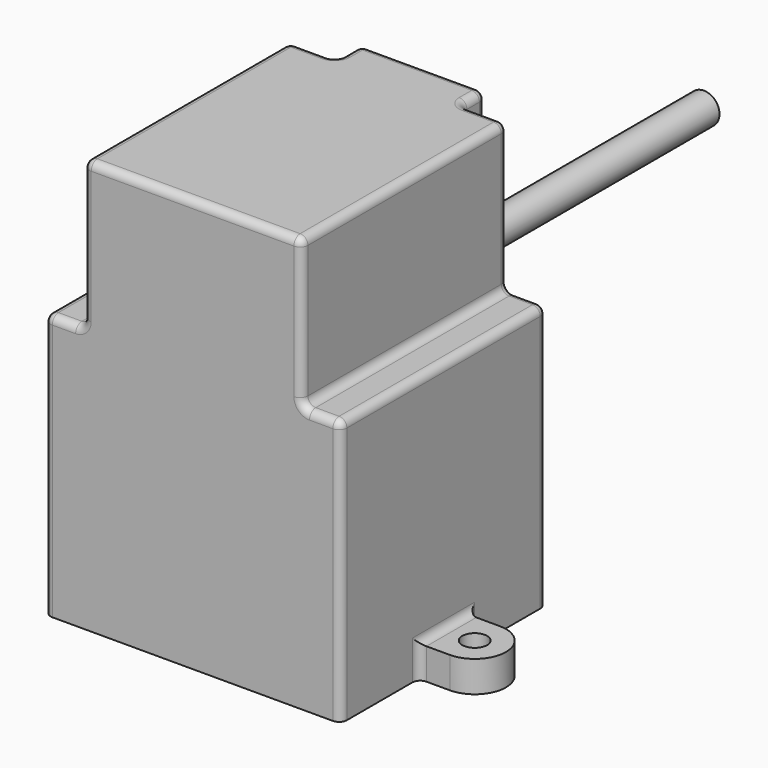
from build123d import *

# Parameters (mm, degrees)
F1_DEPTH = 53
F2_W     = 5
F2_H     = 33
F3_DEPTH = 19
F4_R     = 3.5
F5_DEPTH = 5
F0_R     = 1.6
F6_DEPTH = 4
F7_R     = 2
F8_DEPTH = 50
F9_R     = 1


with BuildPart() as f1:
    # F0 (on Top) → F1 (new body)
    with BuildSketch(Plane.XY):
        Polygon((19, 4), (19, 16.5), (8, 16.5), (8, 20.5), (0, 20.5), (-8, 20.5), (-8, 16.5), (-19, 16.5), (-19, 4), (-19, -4), (-19, -16.5), (19, -16.5), (19, -4), align=None)
    extrude(amount=F1_DEPTH)

    # F2 (on face) → F3 (cut)
    with BuildSketch(Plane.XY.offset(53)):
        with Locations((-16.5, 0)):
            Rectangle(F2_W, F2_H)
        with Locations((16.5, 0)):
            Rectangle(F2_W, F2_H)
    extrude(amount=-F3_DEPTH, mode=Mode.SUBTRACT)

    # F4 (on face) → F5 (cut)
    with BuildSketch(Plane(origin=(0, 20.5, 0), x_dir=(-1, 0, 0), z_dir=(0, 1, 0))):
        with Locations((0, 30)):
            Circle(F4_R)
    extrude(amount=-F5_DEPTH, mode=Mode.SUBTRACT)

    # F0 (on Top) → F6 (join)
    with BuildSketch(Plane.XY):
        with BuildLine():
            Line((-23, -4), (-19, -4))
            Line((-19, -4), (-19, 4))
            Line((-19, 4), (-23, 4))
            ThreePointArc((-23, 4), (-27, 0), (-23, -4))
        make_face()
        with Locations((-23, 0)):
            Circle(F0_R, mode=Mode.SUBTRACT)
        with BuildLine():
            Line((23, 4), (19, 4))
            Line((19, 4), (19, -4))
            Line((19, -4), (23, -4))
            ThreePointArc((23, -4), (27, 0), (23, 4))
        make_face()
        with Locations((23, 0)):
            Circle(F0_R, mode=Mode.SUBTRACT)
    extrude(amount=F6_DEPTH)

    # F7 (on face) → F8 (join)
    with BuildSketch(Plane(origin=(0, 15.5, 0), x_dir=(-1, 0, 0), z_dir=(0, 1, 0))):
        with Locations((0, 30)):
            Circle(F7_R)
    extrude(amount=F8_DEPTH)

    # F9
    f9_edges = [f1.edges().sort_by_distance(p)[0] for p in [
        (14, 0, 53),
        (0, -16.5, 53),
        (-14, 0, 53),
        (-11, 16.5, 53),
        (-8, 18.5, 53),
        (0, 20.5, 53),
        (8, 18.5, 53),
        (11, 16.5, 53),
        (-14, -16.5, 43.5),
        (-14, 16.5, 43.5),
        (-14, 0, 34),
        (14, 16.5, 43.5),
        (14, -16.5, 43.5),
        (14, 0, 34),
        (-19, -16.5, 17),
        (-16.5, -16.5, 34),
        (16.5, -16.5, 34),
        (19, -16.5, 17),
        (19, 0, 34),
        (19, 16.5, 17),
        (19, 0, 4),
        (19, -4, 2),
        (19, 4, 2),
        (8, 16.5, 26.5),
        (8, 20.5, 26.5),
        (-8, 20.5, 26.5),
        (-19, 16.5, 17),
        (-8, 16.5, 26.5),
        (-19, 0, 34),
        (-19, 4, 2),
        (-19, 0, 4),
        (-19, -4, 2),
        (16.5, 16.5, 34),
        (-16.5, 16.5, 34),
    ]]
    fillet(f9_edges, radius=F9_R)


solid = f1.part
